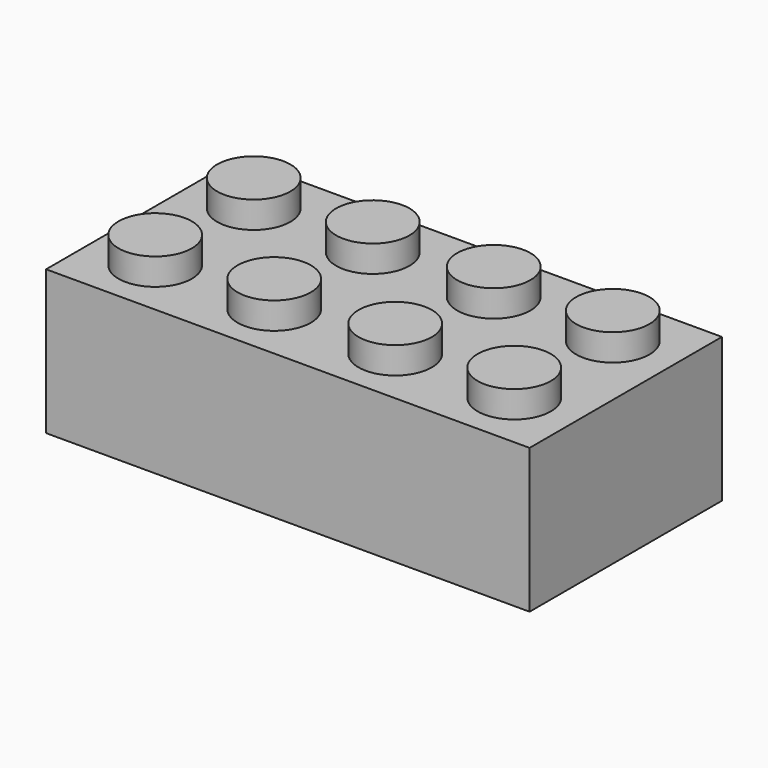
from build123d import *

# Parameters (mm, degrees)
F0_W     = 31.6738
F0_H     = 15.748
F1_DEPTH = 9.4488
F2_R     = 2.4003
F3_DEPTH = 1.7526
F4_W     = 29.3116
F4_H     = 13.1318
F5_DEPTH = 8.128
F6_R     = 3.1877
F7_DEPTH = 8.128
F8_R     = 2.667
F9_DEPTH = 8.128


with BuildPart() as f1:
    # F0 (on Top) → F1 (new body)
    with BuildSketch(Plane.XY):
        Rectangle(F0_W, F0_H)
    extrude(amount=F1_DEPTH)

    # F2 (on face) → F3 (join)
    with BuildSketch(Plane.XY.offset(9.4488)):
        with Locations((-11.7602, 4.036113)):
            Circle(F2_R)
        with Locations((3.9624, -4.036113)):
            Circle(F2_R)
        with Locations((3.9624, 4.036113)):
            Circle(F2_R)
        with Locations((-3.9624, 4.036113)):
            Circle(F2_R)
        with Locations((-3.9624, -4.036113)):
            Circle(F2_R)
        with Locations((-11.7602, -4.036113)):
            Circle(F2_R)
        with Locations((11.7602, -4.036113)):
            Circle(F2_R)
        with Locations((11.7602, 4.036113)):
            Circle(F2_R)
    extrude(amount=F3_DEPTH)

    # F4 (on face) → F5 (cut)
    with BuildSketch(Plane(origin=(0, 0, 0), x_dir=(1, 0, 0), z_dir=(0, 0, -1))):
        Rectangle(F4_W, F4_H)
    extrude(amount=-F5_DEPTH, mode=Mode.SUBTRACT)

    # F6 (on face) → F7 (join)
    with BuildSketch(Plane(origin=(0, 0, 8.128), x_dir=(1, 0, 0), z_dir=(0, 0, -1))):
        with Locations((-7.9121, 0)):
            Circle(F6_R)
        with Locations((7.9121, 0)):
            Circle(F6_R)
        Circle(F6_R)
    extrude(amount=F7_DEPTH)

    # F8 (on face) → F9 (cut)
    with BuildSketch(Plane(origin=(0, 0, 0), x_dir=(1, 0, 0), z_dir=(0, 0, -1))):
        with Locations((-7.9121, 0)):
            Circle(F8_R)
        with Locations((-0.064154, -0.027935)):
            Circle(F8_R)
        with Locations((7.9257, 0)):
            Circle(F8_R)
    extrude(amount=-F9_DEPTH, mode=Mode.SUBTRACT)


solid = f1.part
